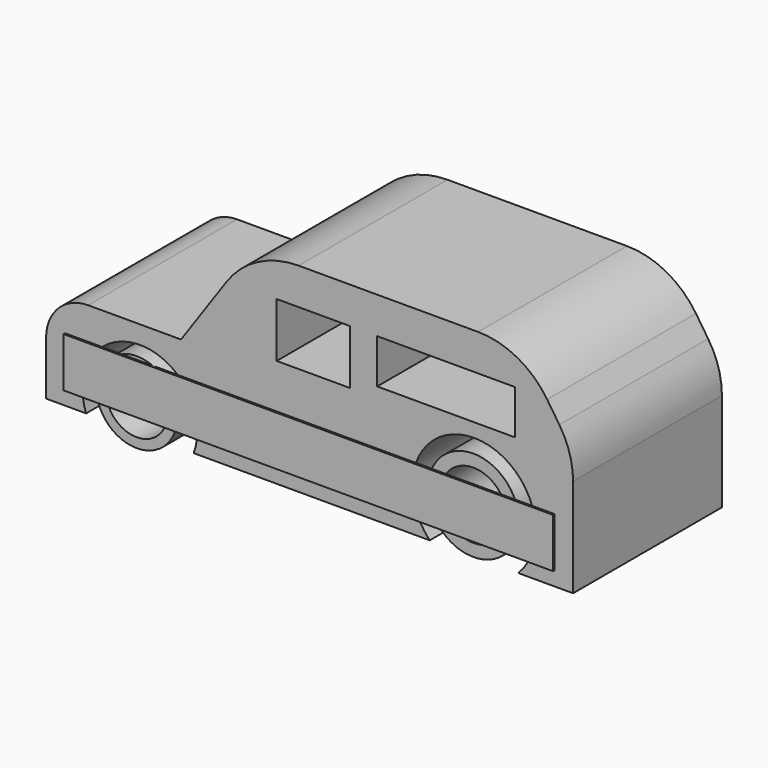
from build123d import *

# Parameters (mm, degrees)
F1_DEPTH  = 25.4
F2_R      = 5.5360546203
F3_DEPTH  = 25.4
F4_DEPTH  = 25.4
F2_R_2    = 6.2210843251
F6_DEPTH  = 25.4
F7_R      = 4.2188641231
F8_DEPTH  = 25.4
F9_R      = 4.5339
F10_DEPTH = 25.4
F11_W     = 18.8395641744
F11_H     = 6.0452
F12_DEPTH = 25.4
F14_DEPTH = 0.254


with BuildPart() as f1:
    # F0 (on Front) → F1 (new body)
    with BuildSketch(Plane.XZ):
        with BuildLine():
            Line((-57.4172474444, 7.3390481994), (-57.4172474444, 0))
            Line((-57.4172474444, 0), (-51.9489385188, 0))
            ThreePointArc((-51.9489385188, 0), (-44.6098931134, 10.6301150636), (-37.270847708, 0))
            Line((-37.270847708, 0), (-5.0366003998, 0))
            ThreePointArc((-5.0366003998, 0), (1.0073210578, 14.2884177934), (7.0512425154, 0))
            Line((7.0512425154, 0), (14.5341902971, 0))
            Line((14.5341902971, 0), (14.5341902971, 13.4535404691))
            ThreePointArc((14.5341902971, 13.4535404691), (14.0547536864, 16.6914740863), (12.6575871379, 19.6515415194))
            Line((12.6575871379, 19.6515415194), (10.9915433626, 22.1506080808))
            ThreePointArc((10.9915433626, 22.1506080808), (6.9091175886, 25.8565418479), (1.5610721514, 27.1976441145))
            Line((1.5610721514, 27.1976441145), (0, 27.1976441145))
            Line((0, 27.1976441145), (-22.9318366948, 27.1976441145))
            ThreePointArc((-22.9318366948, 27.1976441145), (-28.4964708638, 25.8297038573), (-32.7926497885, 22.0377043017))
            Line((-32.7926497885, 22.0377043017), (-38.9976799488, 13.0951618776))
            Line((-38.9976799488, 13.0951618776), (-51.6611337662, 13.0951618776))
            ThreePointArc((-51.6611337662, 13.0951618776), (-55.7313207813, 11.4092352145), (-57.4172474444, 7.3390481994))
        make_face()
    extrude(amount=F1_DEPTH)

    # F5 (on face) → F6 (cut)
    with BuildSketch(Plane.XZ.offset(25.4)):
        Polygon((-15.9322246909, 22.2114877799), (-25.9334743023, 22.2120806575), (-25.9334743023, 14.7692877799), (-15.9322246909, 14.7692877799), align=None)
    extrude(amount=-F6_DEPTH, mode=Mode.SUBTRACT)

    # F11 (on face) → F12 (cut)
    with BuildSketch(Plane.XZ.offset(25.4)):
        with Locations((-2.7910470963, 19.1888877799)):
            Rectangle(F11_W, F11_H)
    extrude(amount=-F12_DEPTH, mode=Mode.SUBTRACT)


with BuildPart() as f3:
    # F2 (on Front) → F3 (new body)
    with BuildSketch(Plane.XZ):
        with Locations((-45.0416021049, 3.597572213)):
            Circle(F2_R)
    extrude(amount=F3_DEPTH)

    # F2 (on Front) → F4 (join)
    with BuildSketch(Plane.XZ):
        with Locations((-45.0416021049, 3.597572213)):
            Circle(F2_R)
    extrude(amount=F4_DEPTH)

    # F7 (on face) → F8 (cut)
    with BuildSketch(Plane.XZ.offset(25.4)):
        with Locations((-45.0416021049, 3.597572213)):
            Circle(F7_R)
    extrude(amount=-F8_DEPTH, mode=Mode.SUBTRACT)


with BuildPart() as f4:
    # F2 (on Front) → F4, piece 2 (new body)
    with BuildSketch(Plane.XZ):
        with Locations((0.9186911047, 6.1528771184)):
            Circle(F2_R_2)
    extrude(amount=F4_DEPTH)

    # F9 (on face) → F10 (cut)
    with BuildSketch(Plane.XZ.offset(25.4)):
        with Locations((0.9186911047, 6.1528771184)):
            Circle(F9_R)
    extrude(amount=-F10_DEPTH, mode=Mode.SUBTRACT)


with BuildPart() as f14:
    # F13 (on face) → F14 (new body)
    with BuildSketch(Plane.XZ.offset(25.4)):
        with BuildLine():
            Line((-6.9244429038, 8.6988350376), (-39.4537838029, 8.6988350376))
            ThreePointArc((-39.4537838029, 8.6988350376), (-37.3012745222, 5.6422189833), (-36.8070187444, 1.9365599146))
            Line((-36.8070187444, 1.9365599146), (-6.4423901031, 1.9365599146))
            ThreePointArc((-6.4423901031, 1.9365599146), (-7.3938416859, 5.2670543948), (-6.9244429038, 8.6988350376))
        make_face()
        with BuildLine():
            Line((-49.7660024239, 8.6988350376), (-54.8260457921, 8.6988350376))
            Line((-54.8260457921, 8.6988350376), (-54.8260457921, 1.9365599146))
            Line((-54.8260457921, 1.9365599146), (-52.4127674823, 1.9365599146))
            ThreePointArc((-52.4127674823, 1.9365599146), (-51.9185117045, 5.6422189833), (-49.7660024239, 8.6988350376))
        make_face()
        with BuildLine():
            Line((-39.4537838029, 8.6988350376), (-49.7660024239, 8.6988350376))
            ThreePointArc((-49.7660024239, 8.6988350376), (-51.9185117045, 5.6422189833), (-52.4127674823, 1.9365599146))
            Line((-52.4127674823, 1.9365599146), (-36.8070187444, 1.9365599146))
            ThreePointArc((-36.8070187444, 1.9365599146), (-37.3012745222, 5.6422189833), (-39.4537838029, 8.6988350376))
        make_face()
        with BuildLine():
            Line((8.9390850195, 8.6988350376), (-6.9244429038, 8.6988350376))
            ThreePointArc((-6.9244429038, 8.6988350376), (-7.3938416859, 5.2670543948), (-6.4423901031, 1.9365599146))
            Line((-6.4423901031, 1.9365599146), (8.4570322187, 1.9365599146))
            ThreePointArc((8.4570322187, 1.9365599146), (9.4084838016, 5.2670543948), (8.9390850195, 8.6988350376))
        make_face()
        with BuildLine():
            Line((12.0267542079, 8.6988350376), (8.9390850195, 8.6988350376))
            ThreePointArc((8.9390850195, 8.6988350376), (9.4084838016, 5.2670543948), (8.4570322187, 1.9365599146))
            Line((8.4570322187, 1.9365599146), (12.0267542079, 1.9365599146))
            Line((12.0267542079, 1.9365599146), (12.0267542079, 8.6988350376))
        make_face()
    extrude(amount=F14_DEPTH)


solid = Compound([f1.part, f3.part, f4.part, f14.part])
